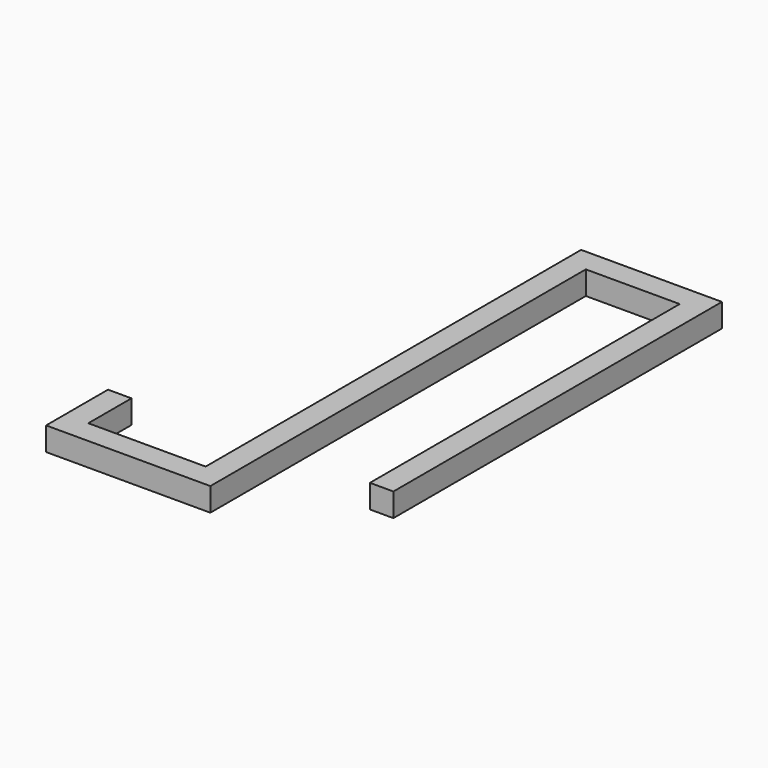
from build123d import *

# Parameters (mm, degrees)
PAD_DEPTH = 2


with BuildPart() as part:
    # Sketch → Pad (new body)
    with BuildSketch(Plane.XY):
        Polygon((0, 0), (-2, 0), (-2, -6.598054), (12, -6.598054), (12, 33.401946), (20, 33.401946), (20, 0.401946), (22, 0.401946), (22, 35.401946), (10, 35.401946), (10, -4.598054), (0, -4.598054), align=None)
    extrude(amount=PAD_DEPTH)


solid = part.part
